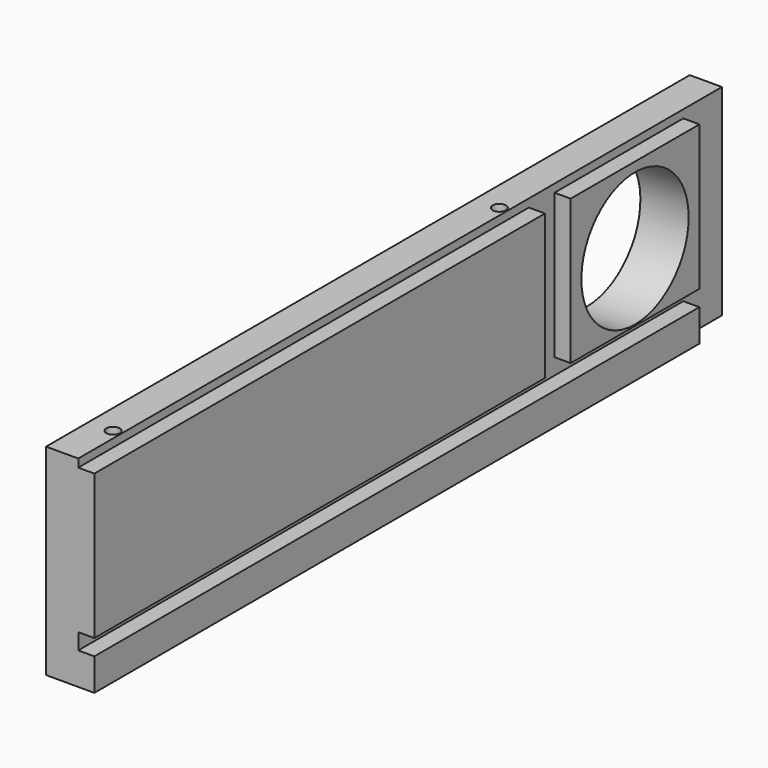
from build123d import *

# Parameters (mm, degrees)
SKETCH021_W             = 75
SKETCH021_H             = 300
PAD007_DEPTH            = 18
SKETCH023_W             = 75
SKETCH023_H             = 18
SKETCH023_W_2           = 57
SKETCH023_H_2           = 12
POCKET014_DEPTH         = 6
SKETCH022_W             = 6
SKETCH022_H             = 6
SKETCH022_W_2           = 3
POCKET015_DEPTH         = 300
SKETCH024_R             = 25
POCKET016_DEPTH         = 18
SKETCH031_R             = 2.5
POCKET020_DEPTH         = 75
BODY008_PLACEMENT_ANGLE = 90


with BuildPart() as part:
    # Sketch021 → Pad007 (new body)
    with BuildSketch(Plane.XY):
        with Locations((-37.5, 150)):
            Rectangle(SKETCH021_W, SKETCH021_H)
    extrude(amount=PAD007_DEPTH)

    # Sketch023 (on Face6 of Pad007) → Pocket014 (cut)
    with BuildSketch(Plane.XY.offset(18)):
        with Locations((-37.5, 291)):
            Rectangle(SKETCH023_W, SKETCH023_H)
        with Locations((-46.5, 216)):
            Rectangle(SKETCH023_W_2, SKETCH023_H_2)
    extrude(amount=-POCKET014_DEPTH, mode=Mode.SUBTRACT)

    # Sketch022 (on Face3 of Pad007) → Pocket015 (cut)
    with BuildSketch(Plane.XZ):
        with Locations((-15, 15)):
            Rectangle(SKETCH022_W, SKETCH022_H)
        with Locations((-73.5, 15)):
            Rectangle(SKETCH022_W_2, SKETCH022_H)
    extrude(amount=-POCKET015_DEPTH, mode=Mode.SUBTRACT)

    # Sketch024 (on Face2 of Pocket015) → Pocket016 (cut)
    with BuildSketch(Plane(origin=(0, 0, 0), x_dir=(1, 0, 0), z_dir=(0, 0, -1))):
        with Locations((-43.5, -252)):
            Circle(SKETCH024_R)
    extrude(amount=-POCKET016_DEPTH, mode=Mode.SUBTRACT)

    # Sketch031 (on Face8 of Pocket016) → Pocket020 (cut)
    with BuildSketch(Plane(origin=(-75, 0, 0), x_dir=(0, -1, 0), z_dir=(-1, 0, 0))):
        with Locations((-20, 9)):
            Circle(SKETCH031_R)
        with Locations((-200, 9)):
            Circle(SKETCH031_R)
    extrude(amount=-POCKET020_DEPTH, mode=Mode.SUBTRACT)


with BuildPart() as part_1:
    # Body008 placement: moved
    add(part.part.moved(Location((-131, 0, 0))).rotate(Axis((-131, 0, 0), (0, 1, 0)), BODY008_PLACEMENT_ANGLE))


solid = part_1.part
